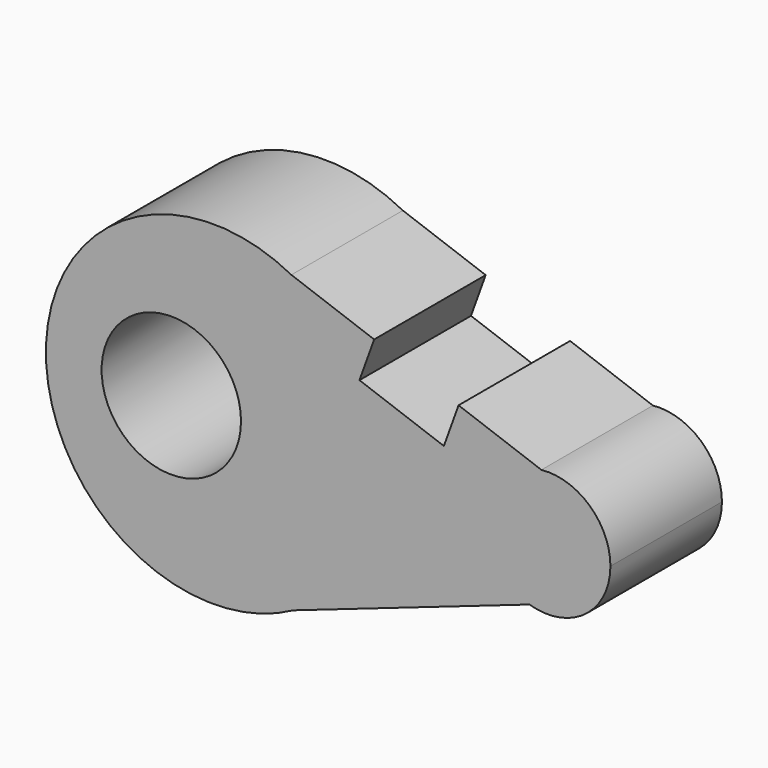
from build123d import *

# Parameters (mm, degrees)
F1_DEPTH = 50
F2_W     = 32.1948009557
F2_H     = 50
F3_DEPTH = 15.5
F4_R     = 25
F5_DEPTH = 50.001


with BuildPart() as f1:
    # F0 (on Front) → F1 (new body)
    with BuildSketch(Plane.XZ):
        with BuildLine():
            ThreePointArc((-39.5141846856, -29.3770225464), (-16.6691602535, -7.3325556277), (-8.2703797283, 23.2830310679))
            ThreePointArc((-8.2703797283, 23.2830310679), (-16.8774367266, 54.2469683115), (-40.2292267158, 76.3272931302))
            ThreePointArc((-40.2292267158, 76.3272931302), (-128.2690070017, 22.8771674096), (-39.5141846856, -29.3770225464))
        make_face()
        with BuildLine():
            ThreePointArc((-40.2292267158, 76.3272931302), (-16.8774367266, 54.2469683115), (-8.2703797283, 23.2830310679))
            ThreePointArc((-8.2703797283, 23.2830310679), (-16.6691602535, -7.3325556277), (-39.5141846856, -29.3770225464))
            Line((-39.5141846856, -29.3770225464), (45.1779214949, 0))
            ThreePointArc((45.1779214949, 0), (29.3226828607, 23.709159184), (49.4534202451, 43.9147582526))
            Line((49.4534202451, 43.9147582526), (-40.2292267158, 76.3272931302))
        make_face()
        with BuildLine():
            ThreePointArc((74.2167987014, 21.5288895412), (66.8052708694, 38.2198454046), (49.4534202451, 43.9147582526))
            ThreePointArc((49.4534202451, 43.9147582526), (29.3226828607, 23.709159184), (45.1779214949, 0))
            ThreePointArc((45.1779214949, 0), (65.1168968886, 3.454394567), (74.2167987014, 21.5288895412))
        make_face()
    extrude(amount=F1_DEPTH)

    # F2 (on face) → F3 (cut)
    with BuildSketch(Plane(origin=(19.7511057602, 0, 54.6495808388), x_dir=(0.9404629658, 0, -0.3398961752), z_dir=(0.3398961752, 0, 0.9404629658))):
        with Locations((-16.0974004779, -25)):
            Rectangle(F2_W, F2_H)
    extrude(amount=-F3_DEPTH, mode=Mode.SUBTRACT)

    # F4 (on face) → F5 (cut, through all)
    with BuildSketch(Plane.XZ.offset(50)):
        with Locations((-83.2891840334, 24.2245818774)):
            Circle(F4_R)
    extrude(amount=-F5_DEPTH, mode=Mode.SUBTRACT)


solid = f1.part
